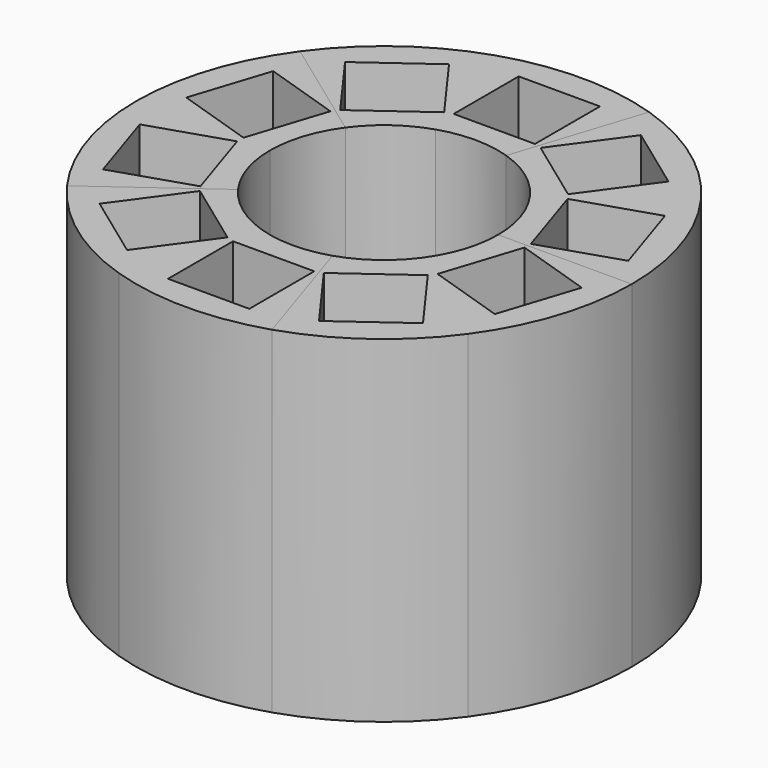
from build123d import *

# Parameters (mm, degrees)
F1_DEPTH = 17
F2_DEPTH = 2


with BuildPart() as f1:
    # F0 (on Top) → F1 (new body)
    with BuildSketch(Plane.XY):
        with BuildLine():
            Line((-9.8818381012, 5.3663013937), (-5.9825063844, 4.0993317168))
            ThreePointArc((-5.9825063844, 4.0993317168), (-5.9254070532, 4.1814416674), (-5.8671808417, 4.262756401))
            Line((-5.8671808417, 4.262756401), (-10.1127124297, 7.3473156537))
            ThreePointArc((-10.1127124297, 7.3473156537), (-11.8882064537, 3.8627124297), (-12.5, 0))
            Line((-12.5, 0), (-7.2522343566, 0))
            ThreePointArc((-7.2522343566, 0), (-7.25154475, 0.1000095098), (-7.2494760613, 0.2))
            Line((-7.2494760613, 0.2), (-11.1488077781, 1.4669696769))
            Line((-11.1488077781, 1.4669696769), (-9.8818381012, 5.3663013937))
        make_face()
        with BuildLine():
            ThreePointArc((-5.8671808417, 4.262756401), (-5.9254070532, 4.1814416674), (-5.9825063844, 4.0993317168))
            Line((-5.9825063844, 4.0993317168), (-7.2494760613, 0.2))
            ThreePointArc((-7.2494760613, 0.2), (-7.25154475, 0.1000095098), (-7.2522343566, 0))
            Line((-7.2522343566, 0), (-5.7564648467, 0))
            ThreePointArc((-5.7564648467, 0), (-5.4747234033, 1.7788454652), (-4.6570778885, 3.3835651422))
            Line((-4.6570778885, 3.3835651422), (-5.8671808417, 4.262756401))
        make_face()
    extrude(amount=F1_DEPTH)

    # F0 (on Top) → F2 (join)
    with BuildSketch(Plane.XY):
        with BuildLine():
            ThreePointArc((-7.2494760613, 0.2), (-6.8972847426, 2.2410636634), (-5.9825063844, 4.0993317168))
            Line((-5.9825063844, 4.0993317168), (-9.8818381012, 5.3663013937))
            Line((-9.8818381012, 5.3663013937), (-11.1488077781, 1.4669696769))
            Line((-11.1488077781, 1.4669696769), (-7.2494760613, 0.2))
        make_face()
        with BuildLine():
            Line((-7.2494760613, 0.2), (-5.9825063844, 4.0993317168))
            ThreePointArc((-5.9825063844, 4.0993317168), (-6.8972847426, 2.2410636634), (-7.2494760613, 0.2))
        make_face()
    extrude(amount=F2_DEPTH)

    # F3: F1 across plane


with BuildPart() as f1_1:
    add(f1.part)
    add(f1.part.mirror(Plane.XZ))


with BuildPart() as f4_1:
    # F4: instance of F1
    add(f1_1.part.mirror(Plane(origin=(-7.3848951591, -5.3654403979, 8.5), x_dir=(0.8090169944, 0.5877852523, 0), z_dir=(0.5877852523, -0.8090169944, 0))))


with BuildPart() as f5_1:
    # F5: instance of F4_1
    add(f4_1.part.mirror(Plane(origin=(2.8207789474, -8.6814649285, 8.5), x_dir=(-0.3090169944, 0.9510565163, 0), z_dir=(0.9510565163, 0.3090169944, 0))))


with BuildPart() as f6_1:
    # F6: instance of F5_1
    add(f5_1.part.mirror(Plane(origin=(9.1282324234, 0, 8.5), x_dir=(-1, 0, 0), z_dir=(0, 1, 0))))


with BuildPart() as f7_1:
    # F7: instance of F6_1
    add(f6_1.part.mirror(Plane(origin=(2.8207789474, 8.6814649285, 8.5), x_dir=(-0.3090169944, -0.9510565163, 0), z_dir=(-0.9510565163, 0.3090169944, 0))))


solid = Compound([f1_1.part, f4_1.part, f5_1.part, f6_1.part, f7_1.part])
